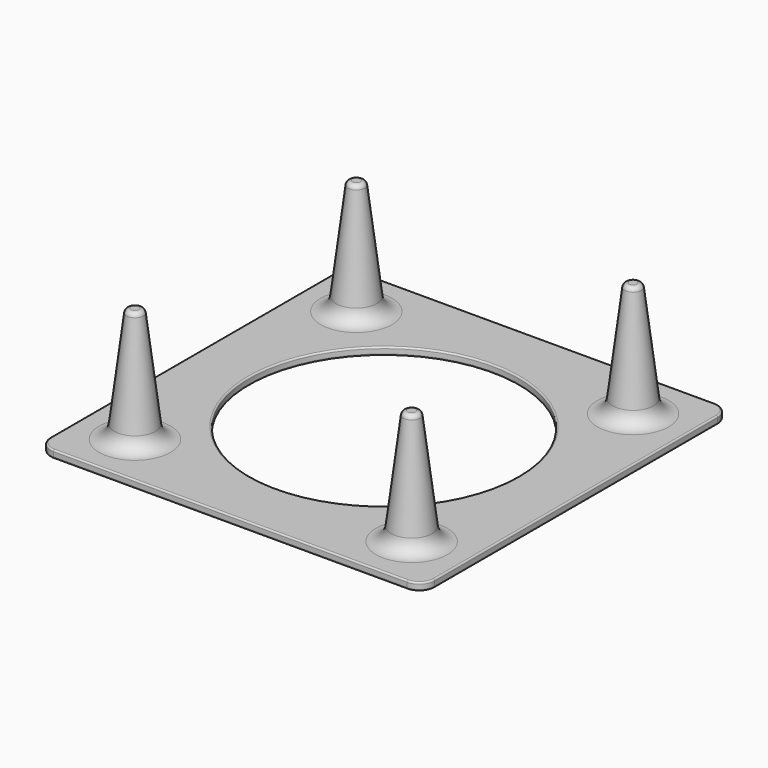
from build123d import *

# Parameters (mm, degrees)
F0_W     = 50
F0_H     = 50
F0_R     = 3
F0_R_2   = 17.5
F1_DEPTH = 1
F2_R     = 2
F3_DEPTH = 16
F3_TAPER = 7
F4_R     = 0.2
F5_R     = 0.6
F6_R     = 2


with BuildPart() as f1:
    # F0 (on Top) → F1 (new body)
    with BuildSketch(Plane.XY):
        Rectangle(F0_W, F0_H)
        with Locations((-18, -18)):
            Circle(F0_R, mode=Mode.SUBTRACT)
        with Locations((18, -18)):
            Circle(F0_R, mode=Mode.SUBTRACT)
        with Locations((-18, 18)):
            Circle(F0_R, mode=Mode.SUBTRACT)
        Circle(F0_R_2, mode=Mode.SUBTRACT)
        with Locations((18, 18)):
            Circle(F0_R, mode=Mode.SUBTRACT)
        with Locations((-18, 18)):
            Circle(F0_R)
        with Locations((-18, -18)):
            Circle(F0_R)
        with Locations((18, -18)):
            Circle(F0_R)
        with Locations((18, 18)):
            Circle(F0_R)
    extrude(amount=F1_DEPTH)

    # F2
    f2_edges = [f1.edges().sort_by_distance(p)[0] for p in [
        (-25, -25, 0.5),
        (25, -25, 0.5),
        (25, 25, 0.5),
        (-25, 25, 0.5),
    ]]
    fillet(f2_edges, radius=F2_R)

    # F0 (on Top) → F3 (join)
    with BuildSketch(Plane.XY):
        with Locations((-18, -18)):
            Circle(F0_R)
        with Locations((-18, 18)):
            Circle(F0_R)
        with Locations((18, 18)):
            Circle(F0_R)
        with Locations((18, -18)):
            Circle(F0_R)
    extrude(amount=F3_DEPTH, taper=F3_TAPER)

    # F4
    f4_edges = [f1.edges().sort_by_distance(p)[0] for p in [
        (25, 0, 0),
        (24.414214, 24.414214, 0),
        (0, 25, 0),
        (-24.414214, 24.414214, 0),
        (-25, 0, 0),
        (-24.414214, -24.414214, 0),
        (0, -25, 0),
        (24.414214, -24.414214, 0),
        (-17.5, 0, 0),
        (-17.5, 0, 1),
        (0, -25, 1),
    ]]
    fillet(f4_edges, radius=F4_R)

    # F5
    f5_edges = [f1.edges().sort_by_distance(p)[0] for p in [
        (-19.035447, 18, 16),
        (-19.035447, -18, 16),
        (16.964553, -18, 16),
        (16.964553, 18, 16),
    ]]
    fillet(f5_edges, radius=F5_R)

    # F6
    f6_edges = [f1.edges().sort_by_distance(p)[0] for p in [
        (-20.877215, 18, 1),
        (-20.877215, -18, 1),
        (15.122785, -18, 1),
        (15.122785, 18, 1),
    ]]
    fillet(f6_edges, radius=F6_R)


solid = f1.part
